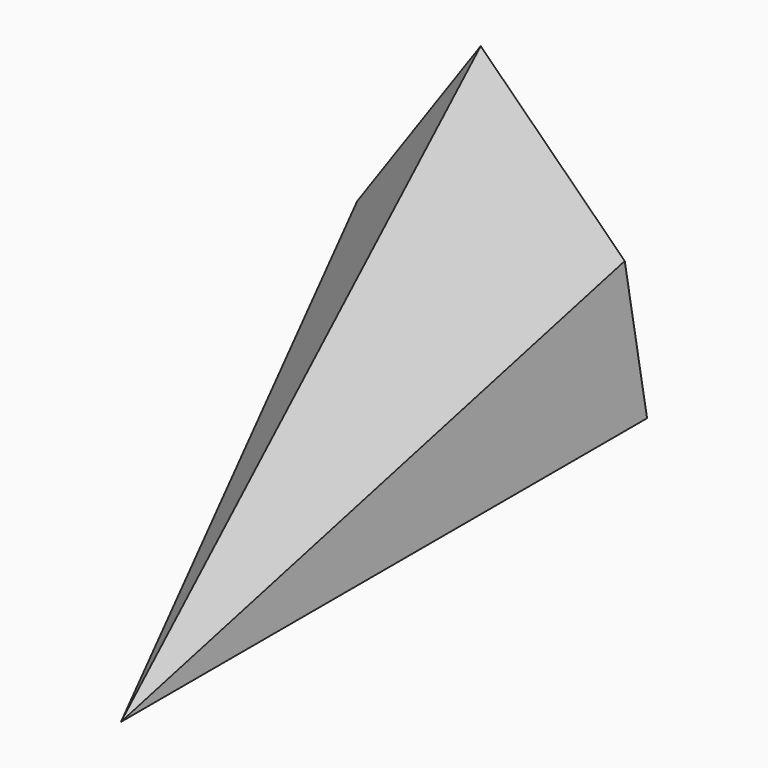
from build123d import *


with BuildPart() as f3:
    # F0 (on Front) → F3 section 0
    with BuildSketch(Plane.XZ, mode=Mode.PRIVATE) as f3_s0:
        Polygon((-48.483606, 16.209017), (0, 0), (-3.729508, 21.946723), (-27.82787, 45.758199), align=None)
    loft([f3_s0.sketch, Vertex(0, -110, 0)])


solid = f3.part
